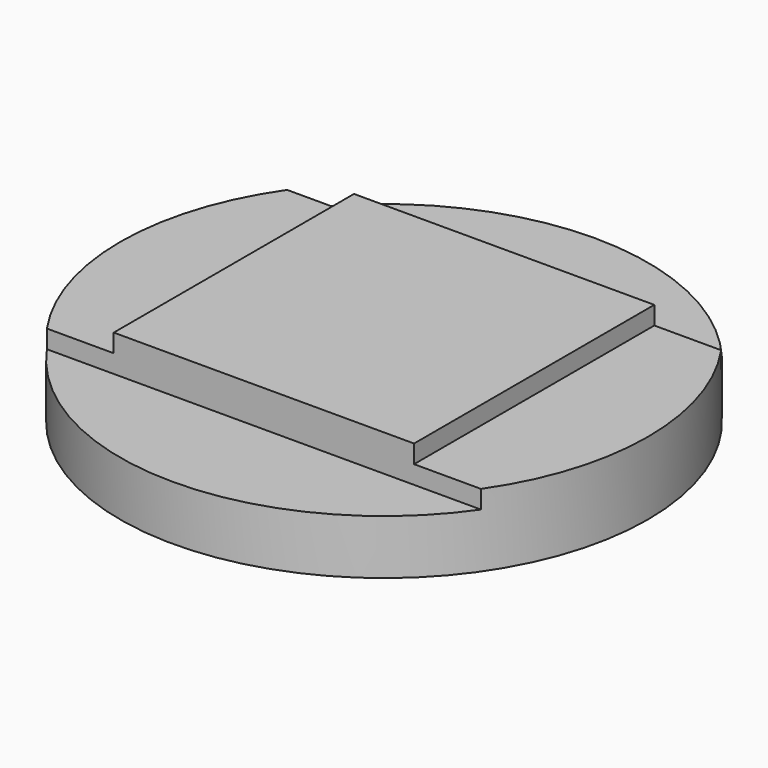
from build123d import *

# Parameters (mm, degrees)
BOX002_W          = 10
BOX002_H          = 10
BOX002_DEPTH      = 0.4
BOX003_W          = 10
BOX003_H          = 10
BOX003_DEPTH      = 0.2
BOX001_W          = 10
BOX001_H          = 10
BOX001_DEPTH      = 0.4
BOX004_W          = 10
BOX004_H          = 10
BOX004_DEPTH      = 0.2
CYLINDER020_R     = 2.9
CYLINDER020_DEPTH = 1


with BuildPart() as cube002:
    # Box002 → Box002 (new body)
    with BuildSketch(Plane(origin=(-5, -11.65, 0), x_dir=(1, 0, 0), z_dir=(0, 0, 1))):
        with Locations((5, 5)):
            Rectangle(BOX002_W, BOX002_H)
    extrude(amount=BOX002_DEPTH)


with BuildPart() as cube003:
    # Box003 → Box003 (new body)
    with BuildSketch(Plane(origin=(1.65, -5, 0.2), x_dir=(1, 0, 0), z_dir=(0, 0, 1))):
        with Locations((5, 5)):
            Rectangle(BOX003_W, BOX003_H)
    extrude(amount=BOX003_DEPTH)


with BuildPart() as cube001:
    # Box001 → Box001 (new body)
    with BuildSketch(Plane(origin=(-5, 1.65, 0), x_dir=(1, 0, 0), z_dir=(0, 0, 1))):
        with Locations((5, 5)):
            Rectangle(BOX001_W, BOX001_H)
    extrude(amount=BOX001_DEPTH)


with BuildPart() as fusion003:
    # Box004 → Box004 (new body)
    with BuildSketch(Plane(origin=(-11.65, -5, 0.2), x_dir=(1, 0, 0), z_dir=(0, 0, 1))):
        with Locations((5, 5)):
            Rectangle(BOX004_W, BOX004_H)
    extrude(amount=BOX004_DEPTH)

    # Fusion003: union Cube002, Cube003, Cube001
    add(cube002.part)
    add(cube003.part)
    add(cube001.part)


with BuildPart() as fusion003_1:
    # Fusion003 placement: moved
    add(fusion003.part.moved(Location((0, 0, 0.6))))


with BuildPart() as cut017:
    # Cylinder020 → Cylinder020 (new body)
    with BuildSketch(Plane.XY):
        Circle(CYLINDER020_R)
    extrude(amount=CYLINDER020_DEPTH)

    # Cut017: cut Fusion003
    add(fusion003_1.part, mode=Mode.SUBTRACT)


solid = cut017.part
